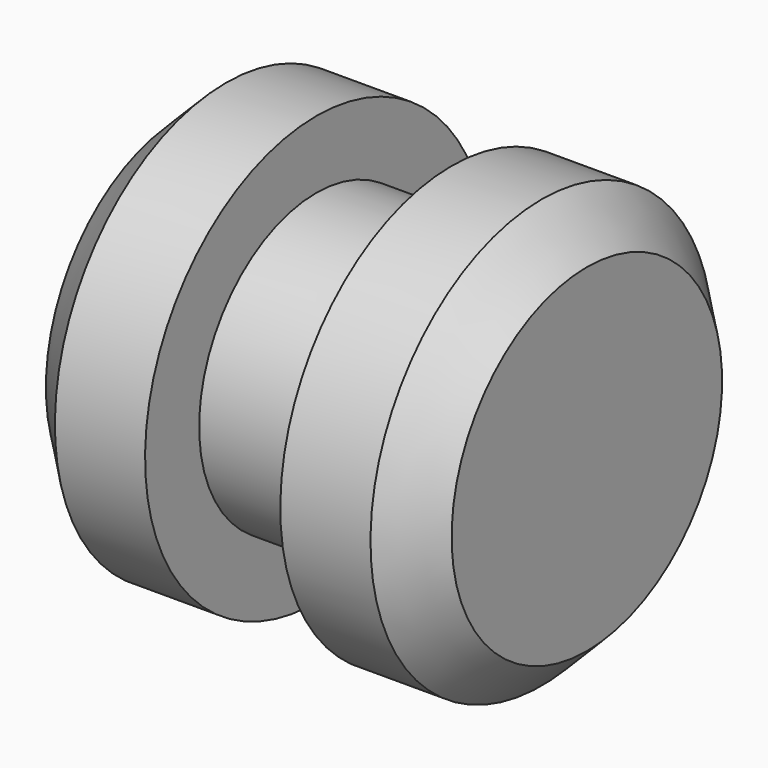
from build123d import *

# Parameters (mm, degrees)
F2_SIZE  = 1
F3_R     = 3
F4_DEPTH = 3


with BuildPart() as f1:
    # F0 (on Front) → F1 (revolve)
    with BuildSketch(Plane.XZ):
        Polygon((3, 4.75), (0, 4.75), (0, 0), (9, 0), (9, 4.75), (6, 4.75), (6, 3.25), (3, 3.25), align=None)
    revolve(axis=Axis((4.5, 0, 0), (1, 0, 0)))

    # F2
    f2_edges = [f1.edges().sort_by_distance(p)[0] for p in [
        (0, 0, -4.75),
        (9, 0, -4.75),
    ]]
    chamfer(f2_edges, length=F2_SIZE)

    # F3 (on face) → F4 (cut)
    with BuildSketch(Plane(origin=(0, 0, 0), x_dir=(0, -1, 0), z_dir=(-1, 0, 0))):
        Circle(F3_R)
    extrude(amount=-F4_DEPTH, mode=Mode.SUBTRACT)


solid = f1.part
